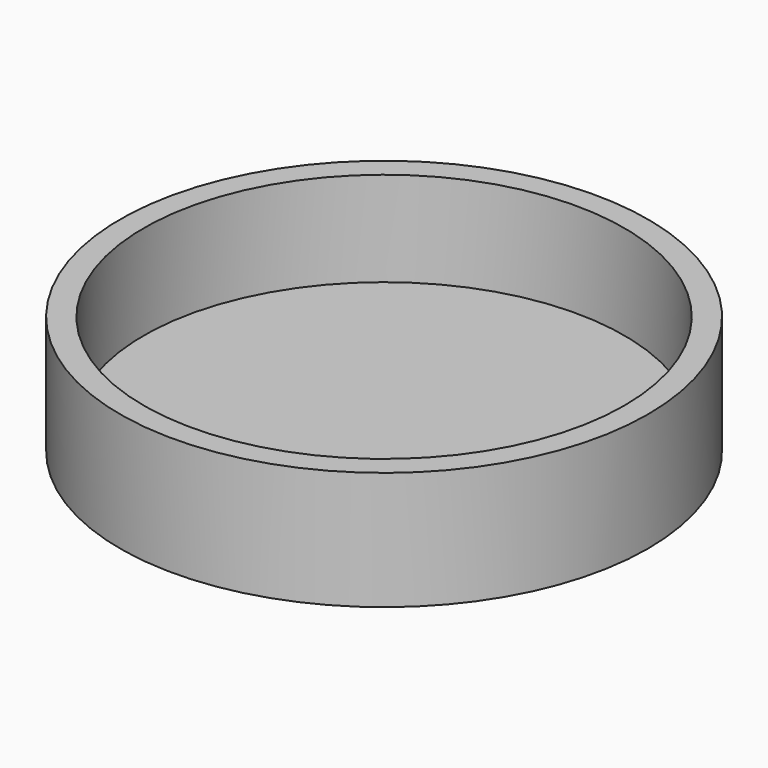
from build123d import *

# Parameters (mm, degrees)
F0_R     = 28.355032
F1_DEPTH = 12.7
F2_T     = -2.54


with BuildPart() as f1:
    # F0 (on Top) → F1 (new body)
    with BuildSketch(Plane.XY):
        Circle(F0_R)
        Circle(F0_R)
    extrude(amount=F1_DEPTH)

    # F2
    f2_openings = [f1.faces().sort_by_distance(p)[0] for p in [
        (0, 0, 12.7),
    ]]
    offset(amount=F2_T, openings=f2_openings)


solid = f1.part
